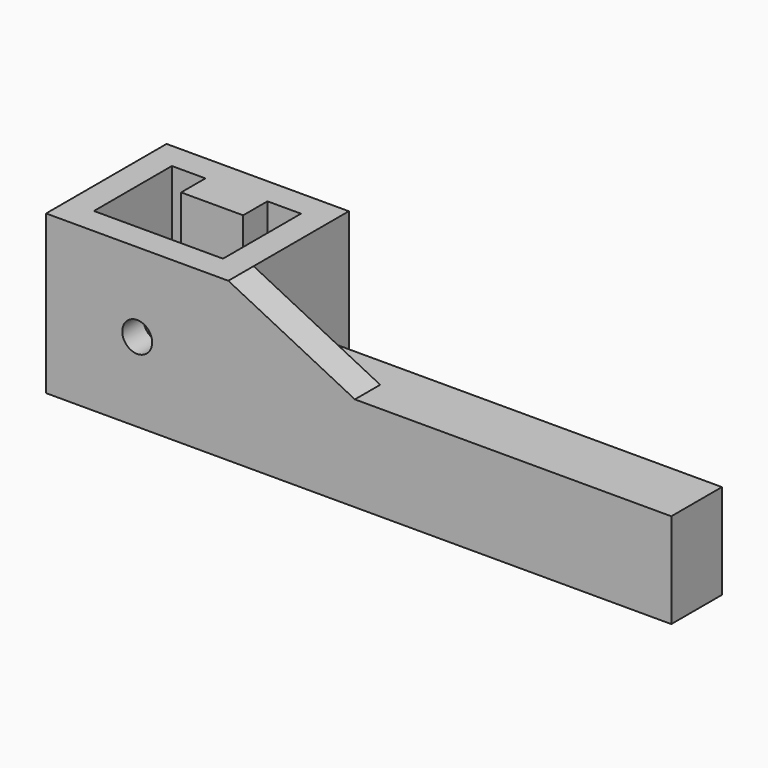
from build123d import *

# Parameters (mm, degrees)
F0_W      = 36.576
F0_H      = 30.226
F0_W_2    = 25.908
F0_H_2    = 19.558
F1_DEPTH  = 15.875
F2_W      = 12.446
F2_H      = 6.096
F3_DEPTH  = 31.75
F4_W      = 88.9
F4_H      = 12.7
F5_DEPTH  = 19.05
F7_DEPTH  = 6.35
F9_R      = 3
F10_DEPTH = 30.227


with BuildPart() as f1:
    # F0 (on Top) → F1 (new body, symmetric)
    with BuildSketch(Plane.XY):
        Rectangle(F0_W, F0_H)
        Rectangle(F0_W_2, F0_H_2, mode=Mode.SUBTRACT)
    extrude(amount=F1_DEPTH, both=True)

    # F2 (on face) → F3 (join)
    with BuildSketch(Plane.XY.offset(15.875)):
        with Locations((0, 6.731)):
            Rectangle(F2_W, F2_H)
    extrude(amount=-F3_DEPTH)

    # F4 (on face) → F5 (join)
    with BuildSketch(Plane(origin=(0, 0, -15.875), x_dir=(1, 0, 0), z_dir=(0, 0, -1))):
        with Locations((62.738, 8.763)):
            Rectangle(F4_W, F4_H)
    extrude(amount=-F5_DEPTH)

    # F6 (on face) → F7 (join)
    with BuildSketch(Plane.XZ.offset(15.113)):
        Polygon((43.688, 3.175), (18.288, 15.875), (18.288, 3.175), align=None)
    extrude(amount=-F7_DEPTH)

    # F9 (on face) → F10 (cut, through all)
    with BuildSketch(Plane.XZ.offset(15.113)):
        Circle(F9_R)
    extrude(amount=-F10_DEPTH, mode=Mode.SUBTRACT)


solid = f1.part
